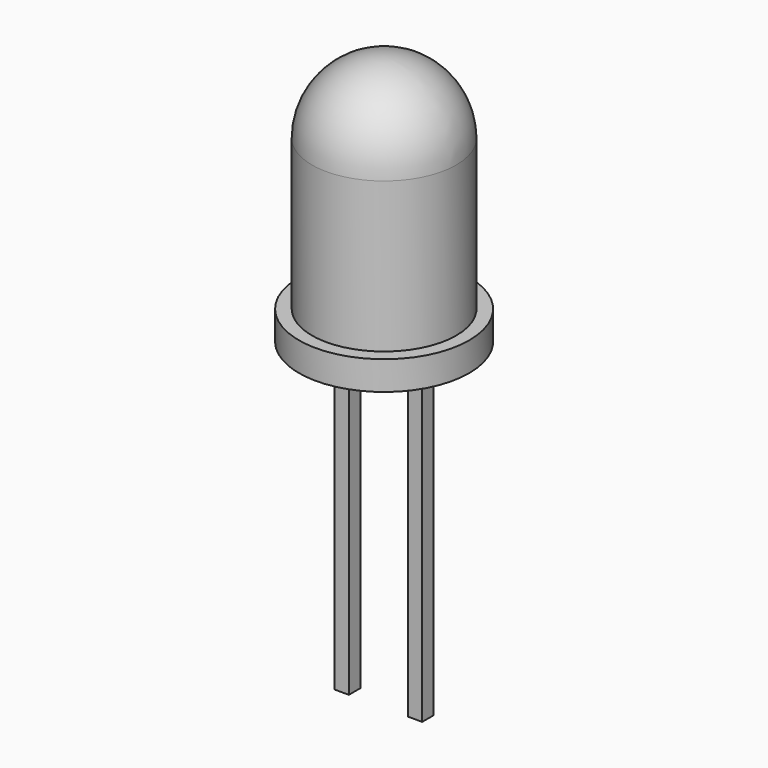
from build123d import *

# Parameters (mm, degrees)
SKETCH_R            = 2.95
PAD_DEPTH           = 1
SKETCH001_R         = 2.5
PAD001_DEPTH        = 7.7
FILLET_R            = 2.5
SKETCH002_W         = 0.7
SKETCH002_H         = 0.7
PAD002_DEPTH        = 0.5
SKETCH003_W         = 0.5
SKETCH003_H         = 0.5
PAD003_DEPTH        = 10.5
LINEARPATTERN_COUNT = 2
LINEARPATTERN_PITCH = 2.54


with BuildPart() as part:
    # Sketch → Pad (new body)
    with BuildSketch(Plane.XY):
        Circle(SKETCH_R)
    extrude(amount=PAD_DEPTH)

    # Sketch001 (on Face3 of Pad) → Pad001 (join)
    with BuildSketch(Plane.XY.offset(1)):
        Circle(SKETCH001_R)
    extrude(amount=PAD001_DEPTH)

    # Fillet
    fillet_edges = [part.edges().sort_by_distance(p)[0] for p in [
        (-2.5, 0, 8.7),
    ]]
    fillet(fillet_edges, radius=FILLET_R)

    # Sketch002 (on Face5 of Fillet) → Pad002 (join)
    with BuildSketch(Plane(origin=(0, 0, 0), x_dir=(1, 0, 0), z_dir=(0, 0, -1))):
        with Locations((-1.27, 0)):
            Rectangle(SKETCH002_W, SKETCH002_H)
    pad002 = extrude(amount=PAD002_DEPTH)

    # Sketch003 (on Face10 of Pad002) → Pad003 (join)
    with BuildSketch(Plane(origin=(0, 0, -0.5), x_dir=(1, 0, 0), z_dir=(0, 0, -1))):
        with Locations((-1.27, 0)):
            Rectangle(SKETCH003_W, SKETCH003_H)
    pad003 = extrude(amount=PAD003_DEPTH)

    # LinearPattern: Pad002, Pad003 ×2
    with Locations(*[(i * LINEARPATTERN_PITCH, 0, 0) for i in range(1, LINEARPATTERN_COUNT)]):
        add(pad002)
        add(pad003)


solid = part.part
